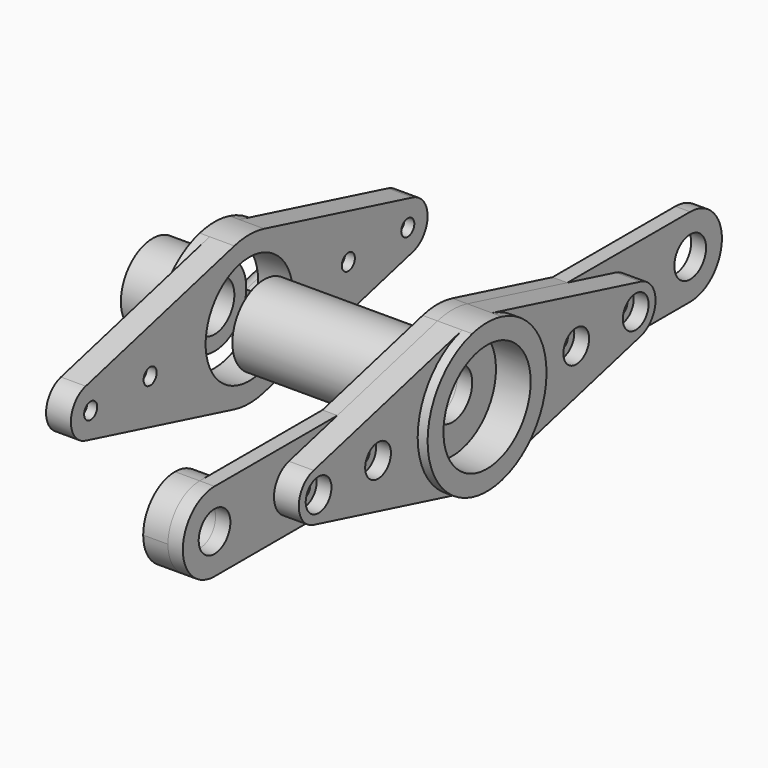
from build123d import *

# Parameters (mm, degrees)
F0_R             = 11
F1_DEPTH         = 7
F2_DEPTH         = 5
F3_R             = 4
F3_R_2           = 5
F4_DEPTH         = 3
F6_D             = 3.3
F6_DEPTH         = 16
F6_CBORE_D       = 6.5
F6_CBORE_DEPTH   = 3
F6_TIP           = 0.9914200214
F6_2_D           = 3.3
F6_2_DEPTH       = 16
F6_2_CBORE_D     = 6.5
F6_2_CBORE_DEPTH = 3
F6_2_TIP         = 0.9914200214
F7_R             = 8
F7_R_2           = 5
F8_DEPTH         = 35
F7_R_3           = 4
F9_DEPTH         = 5
F13_DEPTH        = 25
F14_R            = 1.25
F15_DEPTH        = 25
F16_R            = 8
F16_R_2          = 5
F17_DEPTH        = 12.5


with BuildPart() as f1:
    # F0 (on Right) → F1 (new body)
    with BuildSketch(Plane.YZ):
        with BuildLine():
            ThreePointArc((3.75, -14.5236875483), (11.8585412256, -9.1855865354), (15, 0))
            ThreePointArc((15, 0), (11.8585412256, 9.1855865354), (3.75, 14.5236875483))
            ThreePointArc((3.75, 14.5236875483), (0, 15), (-3.75, 14.5236875483))
            ThreePointArc((-3.75, 14.5236875483), (-15, 0), (-3.75, -14.5236875483))
            ThreePointArc((-3.75, -14.5236875483), (0, -15), (3.75, -14.5236875483))
        make_face()
        Circle(F0_R, mode=Mode.SUBTRACT)
    extrude(amount=F1_DEPTH)

    # F0 (on Right) → F2 (join)
    with BuildSketch(Plane.YZ):
        with BuildLine():
            ThreePointArc((-3.75, -14.5236875483), (-15, 0), (-3.75, 14.5236875483))
            Line((-3.75, 14.5236875483), (-41.25, 4.8412291828))
            ThreePointArc((-41.25, 4.8412291828), (-45, 0), (-41.25, -4.8412291828))
            Line((-41.25, -4.8412291828), (-3.75, -14.5236875483))
        make_face()
        with BuildLine():
            ThreePointArc((3.75, 14.5236875483), (11.8585412256, 9.1855865354), (15, 0))
            ThreePointArc((15, 0), (11.8585412256, -9.1855865354), (3.75, -14.5236875483))
            Line((3.75, -14.5236875483), (41.25, -4.8412291828))
            ThreePointArc((41.25, -4.8412291828), (45, 0), (41.25, 4.8412291828))
            Line((41.25, 4.8412291828), (3.75, 14.5236875483))
        make_face()
    extrude(amount=F2_DEPTH)

    # F6
    with Locations(Plane.YZ.offset(5)):
        with Locations((-40, 0), (40, 0), (-25, 0), (25, 0)):
            CounterBoreHole(F6_D / 2, F6_CBORE_D / 2, F6_CBORE_DEPTH, depth=F6_DEPTH)
            with Locations((0, 0, -(F6_DEPTH + F6_TIP / 2))):  # 118° drill point
                Cone(0, F6_D / 2, F6_TIP, mode=Mode.SUBTRACT)


with BuildPart() as f4:
    # F3 (on face) → F4 (new body)
    with BuildSketch(Plane(origin=(0, 0, 0), x_dir=(0, -1, 0), z_dir=(-1, 0, 0))):
        with BuildLine():
            Line((-29.0161332303, -8), (-3.75, -14.5236875483))
            ThreePointArc((-3.75, -14.5236875483), (0, -15), (3.75, -14.5236875483))
            Line((3.75, -14.5236875483), (29.0161332303, -8))
            Line((29.0161332303, -8), (60, -8))
            ThreePointArc((60, -8), (68, 0), (60, 8))
            Line((60, 8), (29.0161332303, 8))
            Line((29.0161332303, 8), (3.75, 14.5236875483))
            ThreePointArc((3.75, 14.5236875483), (0, 15), (-3.75, 14.5236875483))
            Line((-3.75, 14.5236875483), (-29.0161332303, 8))
            Line((-29.0161332303, 8), (-60, 8))
            ThreePointArc((-60, 8), (-68, 0), (-60, -8))
            Line((-60, -8), (-29.0161332303, -8))
        make_face()
        with Locations((-60, 0)):
            Circle(F3_R, mode=Mode.SUBTRACT)
        Circle(F3_R_2, mode=Mode.SUBTRACT)
        with Locations((60, 0)):
            Circle(F3_R, mode=Mode.SUBTRACT)
    extrude(amount=F4_DEPTH)

    # F6#2
    with Locations(Plane.YZ.offset(5)):
        with Locations((-40, 0), (40, 0), (-25, 0), (25, 0)):
            CounterBoreHole(F6_2_D / 2, F6_2_CBORE_D / 2, F6_2_CBORE_DEPTH, depth=F6_2_DEPTH)
            with Locations((0, 0, -(F6_2_DEPTH + F6_2_TIP / 2))):  # 118° drill point
                Cone(0, F6_2_D / 2, F6_2_TIP, mode=Mode.SUBTRACT)


with BuildPart() as f8:
    # F7 (on face) → F8 (new body)
    with BuildSketch(Plane(origin=(-3, 0, 0), x_dir=(0, -1, 0), z_dir=(-1, 0, 0))):
        Circle(F7_R)
        Circle(F7_R_2, mode=Mode.SUBTRACT)
    extrude(amount=F8_DEPTH)


with BuildPart() as f9:
    # F7 (on face) → F9 (new body)
    with BuildSketch(Plane(origin=(-3, 0, 0), x_dir=(0, -1, 0), z_dir=(-1, 0, 0))):
        with BuildLine():
            ThreePointArc((60, -8), (65.6568542495, -5.6568542495), (68, 0))
            ThreePointArc((68, 0), (65.6568542495, 5.6568542495), (60, 8))
            ThreePointArc((60, 8), (52, 0), (60, -8))
        make_face()
        with Locations((60, 0)):
            Circle(F7_R_3, mode=Mode.SUBTRACT)
    extrude(amount=F9_DEPTH)


with BuildPart() as f11_1:
    # F11: instance of F1
    add(f1.part.mirror(Plane(origin=(-20.5, 0, 0), x_dir=(0, -1, 0), z_dir=(1, 0, 0))))

    # F12 (on face) → F13 (join)
    with BuildSketch(Plane(origin=(-46, 0, 0), x_dir=(0, -1, 0), z_dir=(-1, 0, 0))):
        Polygon((-20.4764747086, 0.3812241305), (-22.1014747086, -5.9123738071), (-12.4190163431, -8.4123738071), (-10.7940163431, -2.1187758695), align=None)
    extrude(amount=F13_DEPTH)

    # F14 (on face) → F15 (cut)
    with BuildSketch(Plane(origin=(0, 9.6065163431, 2.4803918541), x_dir=(1, 0, 0), z_dir=(0, -0.9682458366, -0.25))):
        with BuildLine():
            ThreePointArc((-50.25, -11.25), (-53.5, -8), (-50.25, -4.75))
            Line((-50.25, -4.75), (-50.25, 5.3424948306))
            Line((-50.25, 5.3424948306), (-79.4689531028, 5.3424948306))
            Line((-79.4689531028, 5.3424948306), (-79.4689531028, -24.2762112579))
            Line((-79.4689531028, -24.2762112579), (-50.25, -24.2762112579))
            Line((-50.25, -24.2762112579), (-50.25, -11.25))
        make_face()
        with Locations((-50.25, -8)):
            Circle(F14_R)
    extrude(amount=-F15_DEPTH, mode=Mode.SUBTRACT)


with BuildPart() as f17:
    # F16 (on face) → F17 (new body)
    with BuildSketch(Plane(origin=(-48, 0, 0), x_dir=(0, -1, 0), z_dir=(-1, 0, 0))):
        Circle(F16_R)
        Circle(F16_R_2, mode=Mode.SUBTRACT)
    extrude(amount=F17_DEPTH)


solid = Compound([f1.part, f4.part, f8.part, f9.part, f11_1.part, f17.part])
